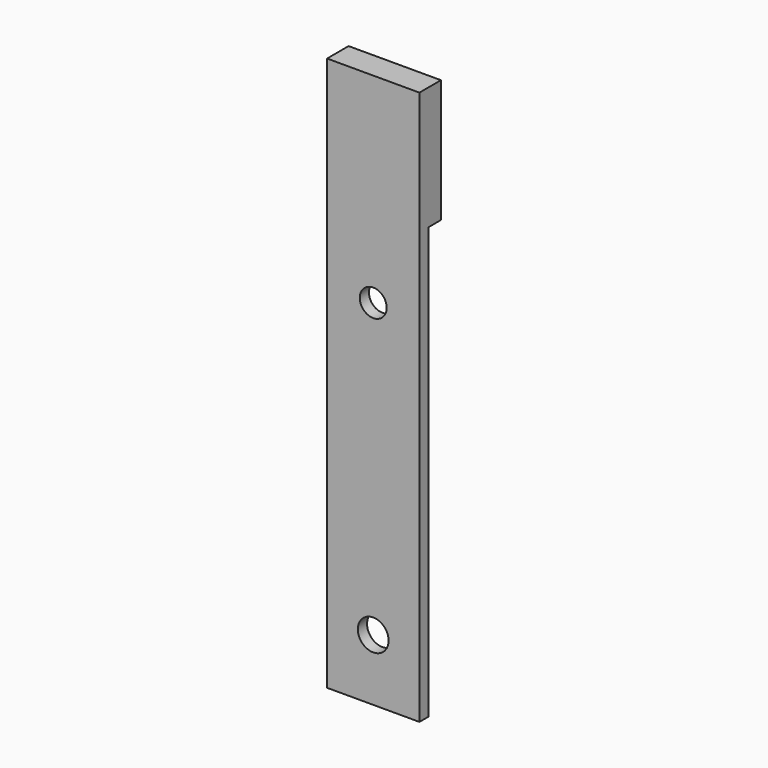
from build123d import *

# Parameters (mm, degrees)
F0_W     = 38.1
F0_H     = 228.6
F0_R     = 6.35
F0_R_2   = 5.55625
F1_DEPTH = 4.7625
F2_W     = 38.1
F2_H     = 50.8
F3_DEPTH = 6.35


with BuildPart() as f1:
    # F0 (on Front) → F1 (new body)
    with BuildSketch(Plane.XZ):
        with Locations((19.05, -114.3)):
            Rectangle(F0_W, F0_H)
        with Locations((19.05, -203.2)):
            Circle(F0_R, mode=Mode.SUBTRACT)
        with Locations((19.05, -82.55)):
            Circle(F0_R_2, mode=Mode.SUBTRACT)
    extrude(amount=F1_DEPTH)

    # F2 (on face) → F3 (join)
    with BuildSketch(Plane(origin=(0, 0, 0), x_dir=(-1, 0, 0), z_dir=(0, 1, 0))):
        with Locations((-19.05, -25.4)):
            Rectangle(F2_W, F2_H)
    extrude(amount=F3_DEPTH)


solid = f1.part
